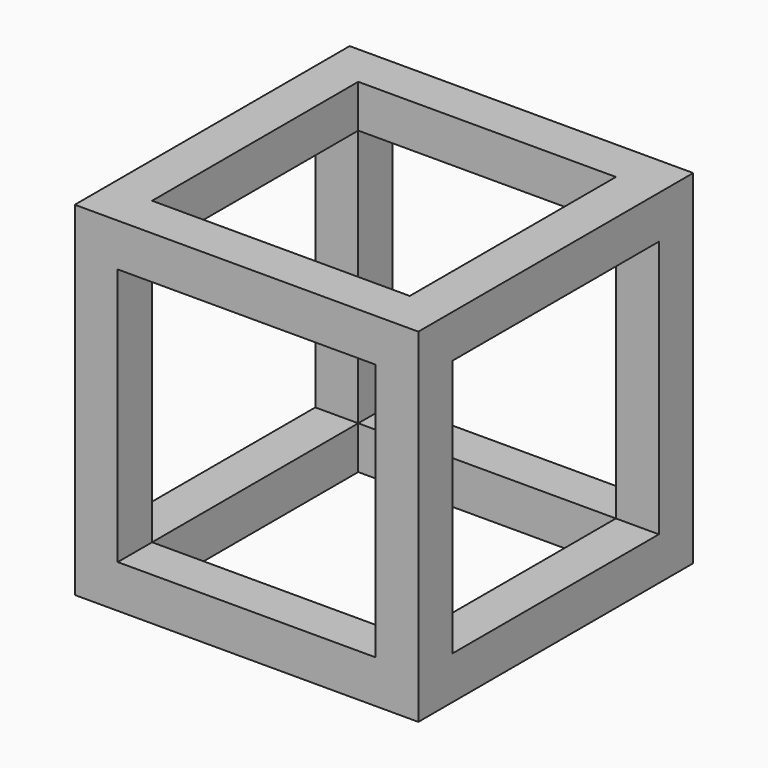
from build123d import *

# Parameters (mm, degrees)
F0_W     = 20
F0_H     = 20
F1_DEPTH = 20
F2_W     = 7.5
F2_H     = 7.5
F3_DEPTH = 25
F4_W     = 7.5
F4_H     = 7.5
F5_DEPTH = 25
F6_W     = 7.5
F6_H     = 7.5
F7_DEPTH = 25


with BuildPart() as f1:
    # F0 (on Top) → F1 (new body)
    with BuildSketch(Plane.XY):
        with Locations((10, -10)):
            Rectangle(F0_W, F0_H)
    extrude(amount=F1_DEPTH)

    # F2 (on face) → F3 (cut)
    with BuildSketch(Plane.YZ.offset(20)):
        with Locations((-6.25, 13.75)):
            Rectangle(F2_W, F2_H)
        with Locations((-6.25, 6.25)):
            Rectangle(F2_W, F2_H)
        with Locations((-13.75, 6.25)):
            Rectangle(F2_W, F2_H)
        with Locations((-13.75, 13.75)):
            Rectangle(F2_W, F2_H)
    extrude(amount=-F3_DEPTH, mode=Mode.SUBTRACT)

    # F4 (on face) → F5 (cut)
    with BuildSketch(Plane.XY.offset(20)):
        with Locations((13.75, -6.25)):
            Rectangle(F4_W, F4_H)
        with Locations((6.25, -13.75)):
            Rectangle(F4_W, F4_H)
        with Locations((13.75, -13.75)):
            Rectangle(F4_W, F4_H)
        with Locations((6.25, -6.25)):
            Rectangle(F4_W, F4_H)
    extrude(amount=-F5_DEPTH, mode=Mode.SUBTRACT)

    # F6 (on face) → F7 (cut)
    with BuildSketch(Plane(origin=(0, 0, 0), x_dir=(-1, 0, 0), z_dir=(0, 1, 0))):
        with Locations((-13.75, 6.25)):
            Rectangle(F6_W, F6_H)
        with Locations((-6.25, 6.25)):
            Rectangle(F6_W, F6_H)
        with Locations((-13.75, 13.75)):
            Rectangle(F6_W, F6_H)
        with Locations((-6.25, 13.75)):
            Rectangle(F6_W, F6_H)
    extrude(amount=-F7_DEPTH, mode=Mode.SUBTRACT)


solid = f1.part
